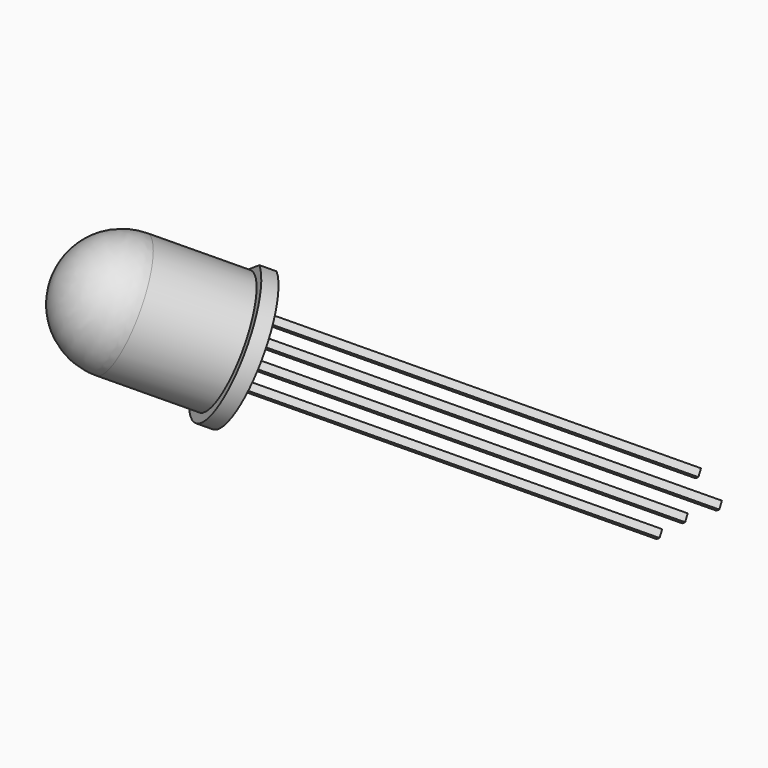
from build123d import *

# Parameters (mm, degrees)
SKETCH002_W          = 0.5
SKETCH002_H          = 0.5
PAD_DEPTH            = 27.5
SKETCH003_W          = 1
SKETCH003_H          = 6.098212
POCKET_DEPTH         = 5
SKETCH004_W          = 0.5
SKETCH004_H          = 0.5
POCKET001_DEPTH      = 2.7
SKETCH005_W          = 0.5
SKETCH005_H          = 0.5
POCKET002_DEPTH      = 1.6
BODY_ROLL_ANGLE      = 36.957399
BODY_PITCH_ANGLE     = -47.256087
BODY_PLACEMENT_ANGLE = 104.70359


with BuildPart() as part:
    # Sketch001 → Revolution (revolve)
    with BuildSketch(Plane.XY):
        with BuildLine():
            ThreePointArc((4, 7), (2.828427, 9.828427), (0, 11))
            Line((0, 0), (0, 11))
            Line((4.6, 0), (0, 0))
            Line((4.6, 1), (4.6, 0))
            Line((4, 1), (4.6, 1))
            Line((4, 7), (4, 1))
        make_face()
    revolve(axis=Axis((0, 0, 0), (0, 1, 0)))

    # Sketch002 (on Face2 of Revolution) → Pad (new body)
    with BuildSketch(Plane.XZ):
        with Locations((0.635, 0)):
            Rectangle(SKETCH002_W, SKETCH002_H)
        with Locations((1.905, 0)):
            Rectangle(SKETCH002_W, SKETCH002_H)
        with Locations((-0.635, 0)):
            Rectangle(SKETCH002_W, SKETCH002_H)
        with Locations((-1.905, 0)):
            Rectangle(SKETCH002_W, SKETCH002_H)
    extrude(amount=PAD_DEPTH)

    # Sketch003 (on Face5 of Pad) → Pocket (cut)
    with BuildSketch(Plane.XZ):
        with Locations((4.5, 0)):
            Rectangle(SKETCH003_W, SKETCH003_H)
    extrude(amount=-POCKET_DEPTH, mode=Mode.SUBTRACT)

    # Sketch004 (on Face23 of Pocket) → Pocket001 (cut)
    with BuildSketch(Plane.XZ.offset(27.5)):
        with Locations((-1.905, 0)):
            Rectangle(SKETCH004_W, SKETCH004_H)
    extrude(amount=-POCKET001_DEPTH, mode=Mode.SUBTRACT)

    # Sketch005 (on Face24 of Pocket001) → Pocket002 (cut)
    with BuildSketch(Plane.XZ.offset(27.5)):
        with Locations((-0.635, 0)):
            Rectangle(SKETCH005_W, SKETCH005_H)
        with Locations((1.905, 0)):
            Rectangle(SKETCH005_W, SKETCH005_H)
    extrude(amount=-POCKET002_DEPTH, mode=Mode.SUBTRACT)


with BuildPart() as part_1:
    # Body roll: moved
    add(part.part.rotate(Axis((0, 0, 0), (1, 0, 0)), BODY_ROLL_ANGLE))


with BuildPart() as part_2:
    # Body pitch: moved
    add(part_1.part.rotate(Axis((0, 0, 0), (0, 1, 0)), BODY_PITCH_ANGLE))


with BuildPart() as part_3:
    # Body placement: moved
    add(part_2.part.moved(Location((-33.012084, -31.017563, 21.188648))).rotate(Axis((-33.012084, -31.017563, 21.188648), (0, 0, 1)), BODY_PLACEMENT_ANGLE))


solid = part_3.part
